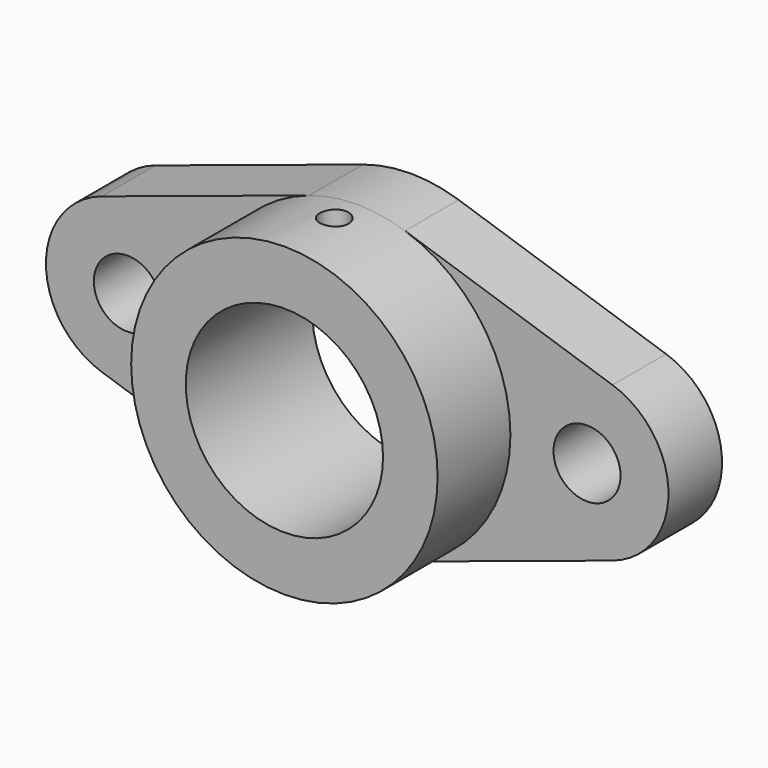
from build123d import *

# Parameters (mm, degrees)
F0_R     = 7
F0_R_2   = 20.6
F1_DEPTH = 14
F2_R     = 32
F2_R_2   = 20.6
F3_DEPTH = 19
F4_R     = 3
F5_DEPTH = 32.001


with BuildPart() as f1:
    # F0 (on Front) → F1 (new body)
    with BuildSketch(Plane.XZ):
        with BuildLine():
            Line((-53.3125, -16.148602), (-10, -30.397368))
            ThreePointArc((-10, -30.397368), (0, -32), (10, -30.397368))
            Line((10, -30.397368), (53.3125, -16.148602))
            ThreePointArc((53.3125, -16.148602), (65, 0), (53.3125, 16.148602))
            Line((53.3125, 16.148602), (10, 30.397368))
            ThreePointArc((10, 30.397368), (0, 32), (-10, 30.397368))
            Line((-10, 30.397368), (-53.3125, 16.148602))
            ThreePointArc((-53.3125, 16.148602), (-65, 0), (-53.3125, -16.148602))
        make_face()
        with Locations((-48, 0)):
            Circle(F0_R, mode=Mode.SUBTRACT)
        Circle(F0_R_2, mode=Mode.SUBTRACT)
        with Locations((48, 0)):
            Circle(F0_R, mode=Mode.SUBTRACT)
    extrude(amount=F1_DEPTH)

    # F2 (on face) → F3 (join)
    with BuildSketch(Plane.XZ.offset(14)):
        Circle(F2_R)
        Circle(F2_R_2, mode=Mode.SUBTRACT)
    extrude(amount=F3_DEPTH)

    # F4 (on Top) → F5 (cut, through all)
    with BuildSketch(Plane.XY):
        with Locations((0, -20)):
            Circle(F4_R)
    extrude(amount=F5_DEPTH, mode=Mode.SUBTRACT)


solid = f1.part
